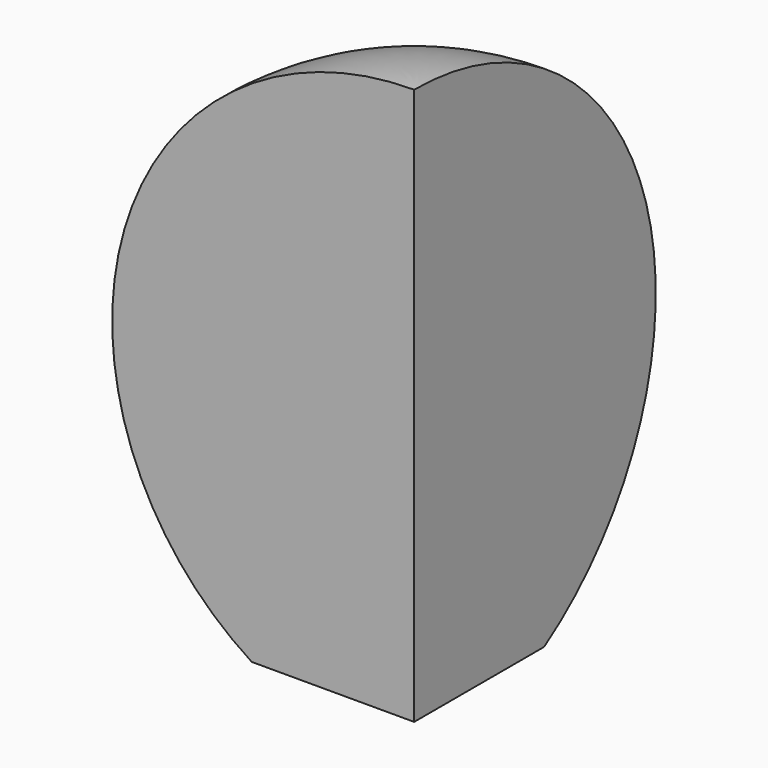
from build123d import *

# Parameters (mm, degrees)
F1_ANGLE = 90


with BuildPart() as f1:
    # F0 (on Front) → F1 (revolve)
    with BuildSketch(Plane.XZ):
        with BuildLine():
            Line((0, -16.860832), (0, 20))
            ThreePointArc((0, 20), (-19.199175, 5.602828), (-10.756968, -16.860832))
            Line((-10.756968, -16.860832), (0, -16.860832))
        make_face()
    revolve(axis=Axis((0, 0, 1.569584), (0, 0, -1)), revolution_arc=F1_ANGLE)


solid = f1.part
